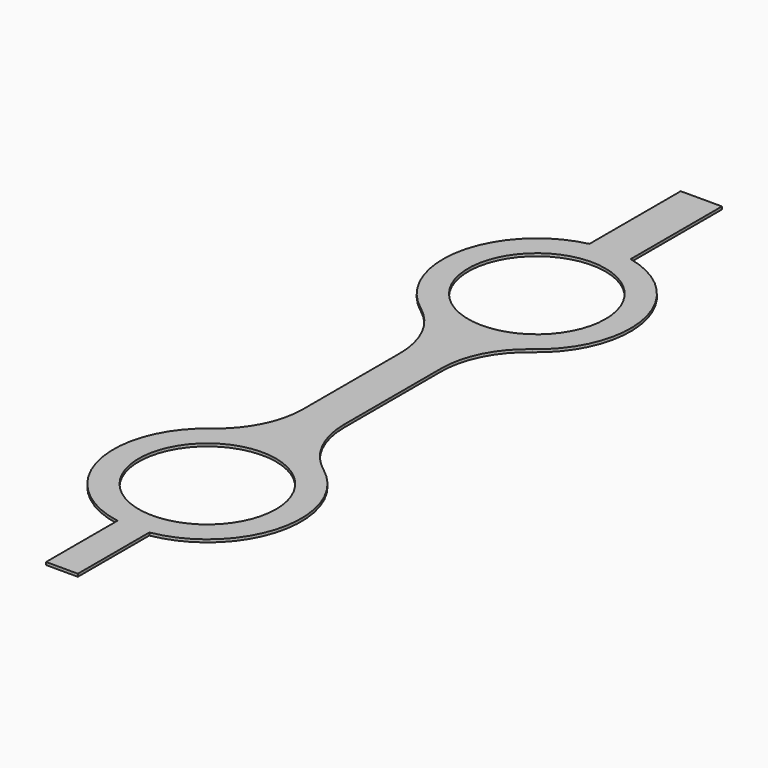
from build123d import *

# Parameters (mm, degrees)
F0_R     = 5
F1_DEPTH = 0.2


with BuildPart() as f1:
    # F0 (on Top) → F1 (new body)
    with BuildSketch(Plane.XY):
        with BuildLine():
            ThreePointArc((-1.5, -16.907135), (-2.178565, -19.763238), (-4.069237, -22.008932))
            ThreePointArc((-4.069237, -22.008932), (-6.648636, -29.083086), (-1.15796, -34.2357))
            Line((-1.15796, -34.2357), (-1.15796, -40.743076))
            Line((-1.15796, -40.743076), (1.15796, -40.743076))
            Line((1.15796, -40.743076), (1.15796, -34.2357))
            ThreePointArc((1.15796, -34.2357), (6.648636, -29.083086), (4.069237, -22.008932))
            ThreePointArc((4.069237, -22.008932), (2.178565, -19.763238), (1.5, -16.907135))
            Line((1.5, -16.907135), (1.5, -8.092874))
            ThreePointArc((1.5, -8.092874), (2.178565, -5.23677), (4.069237, -2.991077))
            ThreePointArc((4.069237, -2.991077), (6.686937, 3.912576), (1.500753, 9.167695))
            Line((1.500753, 9.167695), (1.500753, 17.480434))
            Line((1.500753, 17.480434), (-1.500753, 17.480434))
            Line((-1.500753, 17.480434), (-1.500753, 9.167695))
            ThreePointArc((-1.500753, 9.167695), (-6.686937, 3.912576), (-4.069237, -2.991077))
            ThreePointArc((-4.069237, -2.991077), (-2.178565, -5.23677), (-1.5, -8.092874))
            Line((-1.5, -8.092874), (-1.5, -16.907135))
        make_face()
        with Locations((0, -27.5)):
            Circle(F0_R, mode=Mode.SUBTRACT)
        with Locations((0, 2.499992)):
            Circle(F0_R, mode=Mode.SUBTRACT)
    extrude(amount=F1_DEPTH)


solid = f1.part
